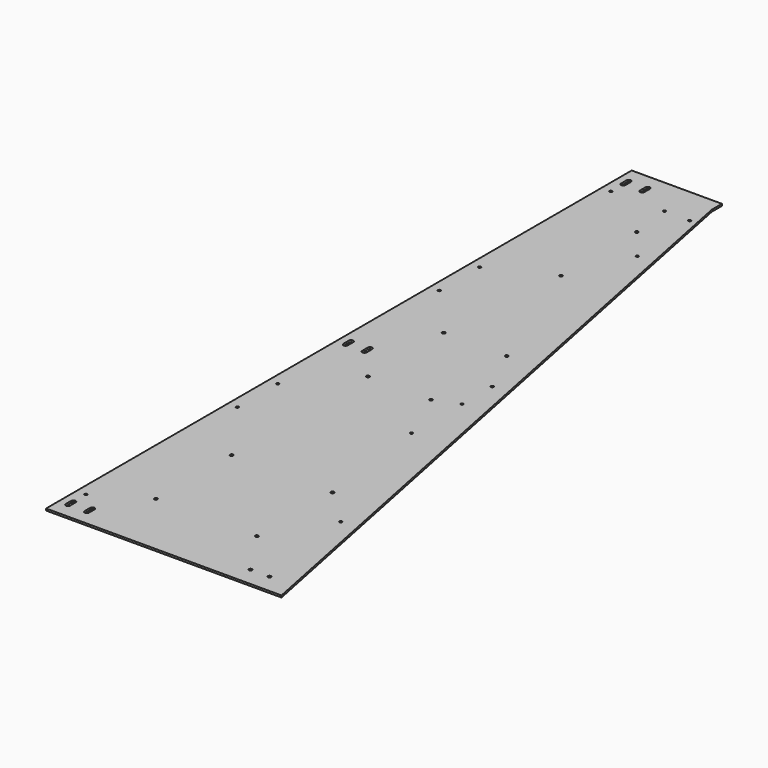
from build123d import *

# Parameters (mm, degrees)
F0_W     = 143
F0_H     = 20
F1_DEPTH = 3
F2_R     = 2.5
F3_DEPTH = 25
F5_DEPTH = 25
F7_R     = 2.05
F8_DEPTH = 25


with BuildPart() as f1:
    # F0 (on Top) → F1 (new body)
    with BuildSketch(Plane.XY):
        Polygon((0, 1140), (0, 0), (373, 0), (143, 1140), align=None)
        with Locations((71.5, 1150)):
            Rectangle(F0_W, F0_H)
    extrude(amount=-F1_DEPTH)

    # F2 (on face) → F3 (cut)
    with BuildSketch(Plane.XY):
        with Locations((90, 105)):
            Circle(F2_R)
        with Locations((250, 105)):
            Circle(F2_R)
        with Locations((250, 255)):
            Circle(F2_R)
        with Locations((90, 255)):
            Circle(F2_R)
        with Locations((90, 525)):
            Circle(F2_R)
        with Locations((90, 675)):
            Circle(F2_R)
        with Locations((190, 525)):
            Circle(F2_R)
        with Locations((190, 675)):
            Circle(F2_R)
        with Locations((108, 885)):
            Circle(F2_R)
        with Locations((108, 1035)):
            Circle(F2_R)
        with Locations((330, 30)):
            Circle(F2_R)
        with Locations((300, 30)):
            Circle(F2_R)
    extrude(amount=-F3_DEPTH, mode=Mode.SUBTRACT)

    # F4 (on face) → F5 (cut)
    with BuildSketch(Plane.XY):
        with BuildLine():
            ThreePointArc((11.5, 24.5), (15, 21), (18.5, 24.5))
            Line((18.5, 24.5), (18.5, 35.5))
            ThreePointArc((18.5, 35.5), (15, 39), (11.5, 35.5))
            Line((11.5, 35.5), (11.5, 24.5))
        make_face()
        with BuildLine():
            ThreePointArc((41.5, 24.5), (45, 21), (48.5, 24.5))
            Line((48.5, 24.5), (48.5, 35.5))
            ThreePointArc((48.5, 35.5), (45, 39), (41.5, 35.5))
            Line((41.5, 35.5), (41.5, 24.5))
        make_face()
        with BuildLine():
            ThreePointArc((11.5, 574.5), (15, 571), (18.5, 574.5))
            Line((18.5, 574.5), (18.5, 585.5))
            ThreePointArc((18.5, 585.5), (15, 589), (11.5, 585.5))
            Line((11.5, 585.5), (11.5, 574.5))
        make_face()
        with BuildLine():
            ThreePointArc((41.5, 574.5), (45, 571), (48.5, 574.5))
            Line((48.5, 574.5), (48.5, 585.5))
            ThreePointArc((48.5, 585.5), (45, 589), (41.5, 585.5))
            Line((41.5, 585.5), (41.5, 574.5))
        make_face()
        with BuildLine():
            ThreePointArc((11.5, 1124.5), (15, 1121), (18.5, 1124.5))
            Line((18.5, 1124.5), (18.5, 1135.5))
            ThreePointArc((18.5, 1135.5), (15, 1139), (11.5, 1135.5))
            Line((11.5, 1135.5), (11.5, 1124.5))
        make_face()
        with BuildLine():
            ThreePointArc((41.5, 1124.5), (45, 1121), (48.5, 1124.5))
            Line((48.5, 1124.5), (48.5, 1135.5))
            ThreePointArc((48.5, 1135.5), (45, 1139), (41.5, 1135.5))
            Line((41.5, 1135.5), (41.5, 1124.5))
        make_face()
    extrude(amount=-F5_DEPTH, mode=Mode.SUBTRACT)

    # F7 (on face) → F8 (cut)
    with BuildSketch(Plane.XY):
        with Locations((15, 60)):
            Circle(F7_R)
        with Locations((307, 200)):
            Circle(F7_R)
        with Locations((15, 360)):
            Circle(F7_R)
        with Locations((15, 440)):
            Circle(F7_R)
        with Locations((15, 760)):
            Circle(F7_R)
        with Locations((15, 840)):
            Circle(F7_R)
        with Locations((15, 1100)):
            Circle(F7_R)
        with Locations((227, 600)):
            Circle(F7_R)
        with Locations((149, 985)):
            Circle(F7_R)
        with Locations((100, 1100)):
            Circle(F7_R)
        with Locations((140, 1100)):
            Circle(F7_R)
        with Locations((227, 540)):
            Circle(F7_R)
        with Locations((227, 440)):
            Circle(F7_R)
    extrude(amount=-F8_DEPTH, mode=Mode.SUBTRACT)


solid = f1.part
